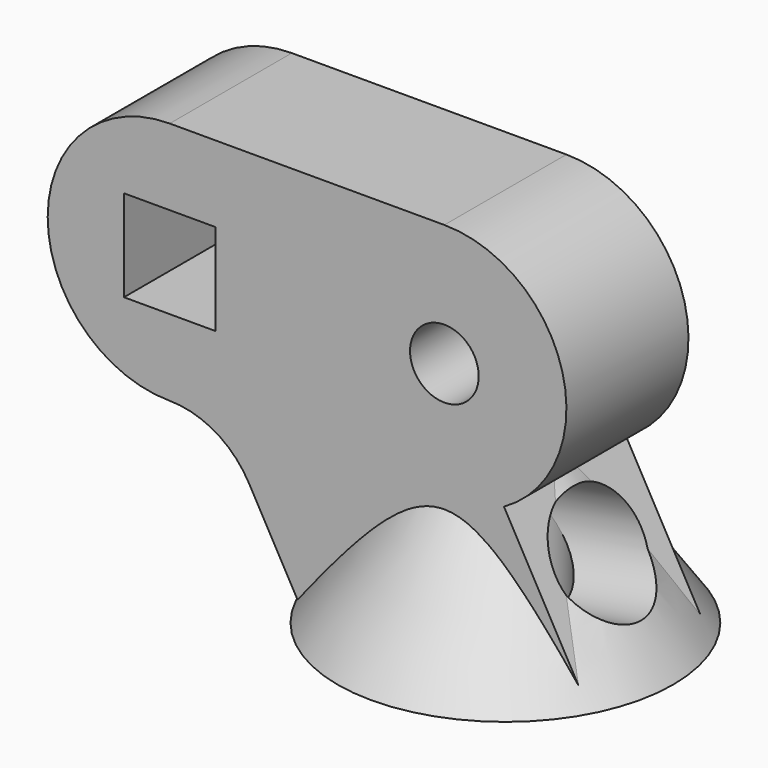
from build123d import *

# Parameters (mm, degrees)
SKETCH023_R       = 2.25
SKETCH023_W       = 6
SKETCH023_H       = 6
PAD017_DEPTH      = 5
CYLINDER060_R     = 3.5
CYLINDER060_DEPTH = 5
CYLINDER061_R     = 3.5
CYLINDER061_DEPTH = 10


with BuildPart() as part:
    # Sketch023 → Pad017 (new body, symmetric)
    with BuildSketch(Plane.XZ):
        with BuildLine():
            Line((-9.5, 0), (-12.806838, 5.911152))
            ThreePointArc((-12.806838, 5.911152), (-15.000053, 8.152854), (-18.024663, 8.981801))
            ThreePointArc((-18, 24.981763), (-25.99999, 16.994094), (-18.024663, 8.981801))
            Line((0, 24.981763), (-18, 24.981763))
            ThreePointArc((3.905763, 10), (7.741256, 18.999918), (0, 24.981763))
            Line((3.905763, 10), (9.5, 0))
            Line((-9.5, 0), (9.5, 0))
        make_face()
        with Locations((0, 16.981763)):
            Circle(SKETCH023_R, mode=Mode.SUBTRACT)
        with Locations((-18, 16.981763)):
            Rectangle(SKETCH023_W, SKETCH023_H, mode=Mode.SUBTRACT)
    extrude(amount=PAD017_DEPTH, both=True)

    # Cone004 → Cone004 (revolve)
    with BuildSketch(Plane.XZ):
        Polygon((0, 0), (11, 0), (4, 10), (0, 10), align=None)
    revolve(axis=Axis((0, 0, 0), (0, 0, 1)))

    # Cylinder060 → Cylinder060 (cut)
    with BuildSketch(Plane.XY):
        Circle(CYLINDER060_R)
    extrude(amount=CYLINDER060_DEPTH, mode=Mode.SUBTRACT)

    # Cylinder061 → Cylinder061 (cut)
    with BuildSketch(Plane(origin=(0, 0, 5), x_dir=(0, 1, 0), z_dir=(0.984808, 0, 0.173648))):
        Circle(CYLINDER061_R)
    extrude(amount=CYLINDER061_DEPTH, mode=Mode.SUBTRACT)

    # Sphere001 → Sphere001 (revolve, cut)
    with BuildSketch(Plane(origin=(0, 0, 5), x_dir=(1, 0, 0), z_dir=(0, -1, 0))):
        with BuildLine():
            ThreePointArc((0, -3.5), (3.5, 0), (0, 3.5))
            Line((0, 3.5), (0, -3.5))
        make_face()
    revolve(axis=Axis((0, 0, 5), (0, 0, 1)), mode=Mode.SUBTRACT)


with BuildPart() as part_1:
    # Body029 placement: moved
    add(part.part.moved(Location((0, 0, 35))))


solid = part_1.part
